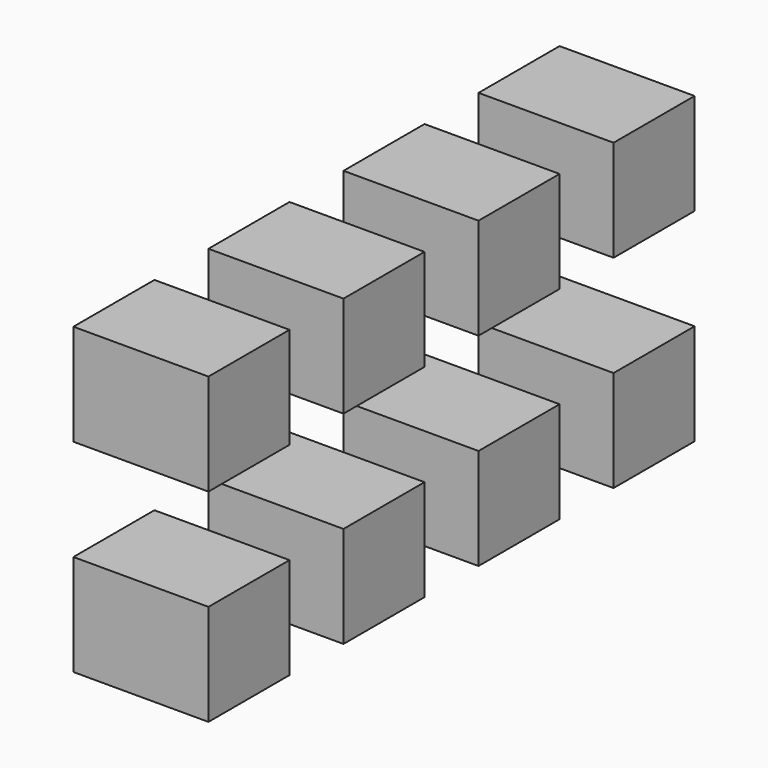
from build123d import *

# Parameters (mm, degrees)
F0_W     = 15
F0_H     = 15
F1_DEPTH = 20


with BuildPart() as f1:
    # F0 (on Right) → F1 (new body)
    with BuildSketch(Plane.YZ):
        with Locations((-54.240111, 40.076442)):
            Rectangle(F0_W, F0_H)
        with Locations((-29.240111, 40.076442)):
            Rectangle(F0_W, F0_H)
        with Locations((-4.240111, 40.076442)):
            Rectangle(F0_W, F0_H)
        with Locations((20.759889, 40.076442)):
            Rectangle(F0_W, F0_H)
        with Locations((-54.240111, 10.04946)):
            Rectangle(F0_W, F0_H)
        with Locations((-29.240111, 10.04946)):
            Rectangle(F0_W, F0_H)
        with Locations((-4.240111, 10.04946)):
            Rectangle(F0_W, F0_H)
        with Locations((20.759889, 10.04946)):
            Rectangle(F0_W, F0_H)
    extrude(amount=F1_DEPTH)


solid = f1.part
